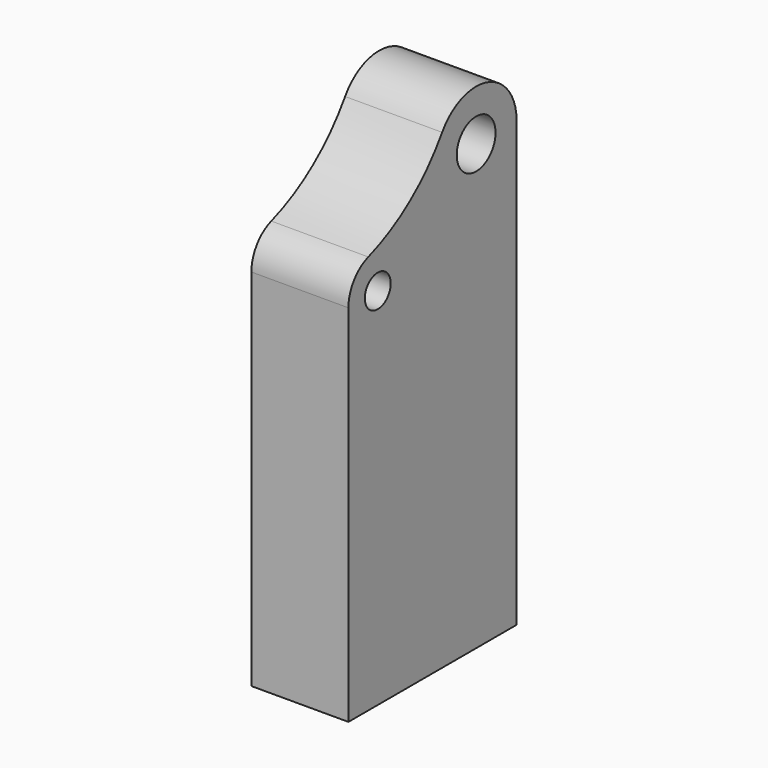
from build123d import *

# Parameters (mm, degrees)
F0_R     = 5
F0_R_2   = 7.5
F1_DEPTH = 15


with BuildPart() as f1:
    # F0 (on Right) → F1 (new body, symmetric)
    with BuildSketch(Plane.YZ):
        with BuildLine():
            Line((0, 100), (0, 0))
            Line((0, 0), (65, 0))
            Line((65, 0), (65, 100))
            Line((65, 100), (65, 137.258077714))
            ThreePointArc((65, 137.258077714), (53.7833642166, 152.2587585239), (36.2231211963, 145.7417647287))
            ThreePointArc((36.2231211963, 145.7417647287), (23.8303752514, 132.1829751818), (7.6754443648, 123.4400275047))
            ThreePointArc((7.6754443648, 123.4400275047), (2.1163859444, 119.3062389941), (0, 112.7098575234))
            Line((0, 112.7098575234), (0, 100))
        make_face()
        with Locations((11.3380402327, 112.7098575234)):
            Circle(F0_R, mode=Mode.SUBTRACT)
        with Locations((49.3610263437, 137.258077714)):
            Circle(F0_R_2, mode=Mode.SUBTRACT)
    extrude(amount=F1_DEPTH, both=True)


solid = f1.part
